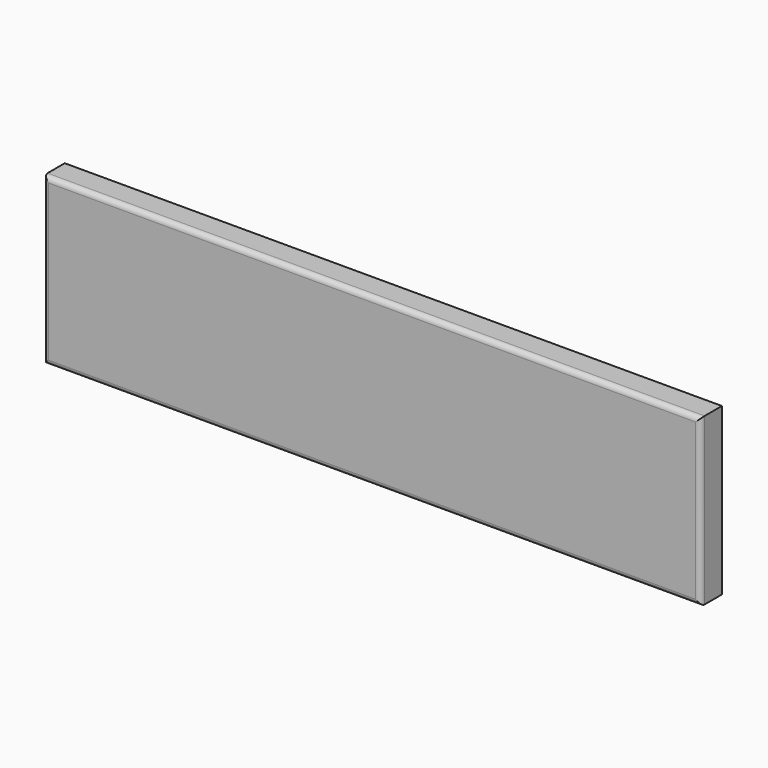
from build123d import *

# Parameters (mm, degrees)
F0_W     = 53.6684691906
F0_H     = 36.3845862448
F1_DEPTH = 16
F2_DEPTH = 396
F3_DEPTH = 100
F4_R     = 3


with BuildPart() as f1:
    # F0 (on Front) → F1 (new body)
    with BuildSketch(Plane.XZ):
        with Locations((26.8342345953, 18.1922931224)):
            Rectangle(F0_W, F0_H)
    extrude(amount=F1_DEPTH)

    # F2 (add): a face of the model
    f2_faces = [f1.faces().sort_by_distance(p)[0] for p in [
        (0, -8, 18.1922931224),
    ]]
    extrude(f2_faces, amount=-F2_DEPTH)

    # F3 (add): a face of the model
    f3_faces = [f1.faces().sort_by_distance(p)[0] for p in [
        (198, -8, 0),
    ]]
    extrude(f3_faces, amount=-F3_DEPTH)

    # F4
    f4_edges = [f1.edges().sort_by_distance(p)[0] for p in [
        (0, -16, 50),
        (198, -16, 0),
        (396, -16, 50),
        (198, -16, 100),
    ]]
    fillet(f4_edges, radius=F4_R)


solid = f1.part
